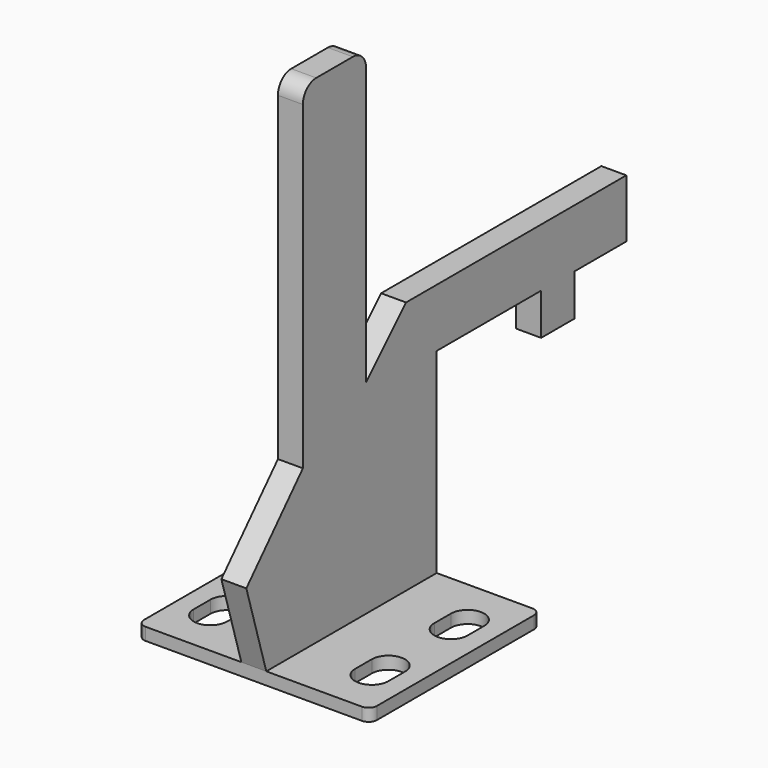
from build123d import *

# Parameters (mm, degrees)
F1_DEPTH = 1.5
F3_DEPTH = 25
F6_DEPTH = 1.5
F7_W     = 3
F7_H     = 5
F8_DEPTH = 5


with BuildPart() as f1:
    # F0 (on Top) → F1 (new body)
    with BuildSketch(Plane.XY):
        with BuildLine():
            ThreePointArc((0, 1), (0.292893, 0.292893), (1, 0))
            Line((1, 0), (27, 0))
            ThreePointArc((27, 0), (27.707107, 0.292893), (28, 1))
            Line((28, 1), (28, 24.6))
            ThreePointArc((28, 24.6), (27.707107, 25.307107), (27, 25.6))
            Line((27, 25.6), (1, 25.6))
            ThreePointArc((1, 25.6), (0.292893, 25.307107), (0, 24.6))
            Line((0, 24.6), (0, 1))
        make_face()
    extrude(amount=F1_DEPTH)

    # F2 (on face) → F3 (cut)
    with BuildSketch(Plane.XY.offset(1.5)):
        with BuildLine():
            Line((6.3, 17.5), (6.3, 20))
            ThreePointArc((6.3, 20), (4.3, 22), (2.3, 20))
            Line((2.3, 20), (2.3, 17.5))
            ThreePointArc((2.3, 17.5), (4.3, 15.5), (6.3, 17.5))
        make_face()
        with BuildLine():
            Line((6.3, 5.6), (6.3, 8.1))
            ThreePointArc((6.3, 8.1), (4.3, 10.1), (2.3, 8.1))
            Line((2.3, 8.1), (2.3, 5.6))
            ThreePointArc((2.3, 5.6), (4.3, 3.6), (6.3, 5.6))
        make_face()
        with BuildLine():
            Line((25.7, 5.6), (25.7, 8.1))
            ThreePointArc((25.7, 8.1), (23.7, 10.1), (21.7, 8.1))
            Line((21.7, 8.1), (21.7, 5.6))
            ThreePointArc((21.7, 5.6), (23.7, 3.6), (25.7, 5.6))
        make_face()
        with BuildLine():
            Line((25.7, 17.5), (25.7, 20))
            ThreePointArc((25.7, 20), (23.7, 22), (21.7, 20))
            Line((21.7, 20), (21.7, 17.5))
            ThreePointArc((21.7, 17.5), (23.7, 15.5), (25.7, 17.5))
        make_face()
    extrude(amount=-F3_DEPTH, mode=Mode.SUBTRACT)

    # F5 (on offset) → F6 (join, symmetric)
    with BuildSketch(Plane.YZ.offset(14)):
        with BuildLine():
            Line((-3, 11.5), (0, 1.5))
            Line((0, 1.5), (25.6, 1.5))
            Line((25.6, 1.5), (25.6, 25))
            Line((25.6, 25), (54.1, 25))
            Line((54.1, 25), (54.1, 32))
            Line((54.1, 32), (21, 32))
            Line((21, 32), (15, 26))
            Line((15, 26), (15, 59.25))
            ThreePointArc((15, 59.25), (14.414214, 60.664214), (13, 61.25))
            Line((13, 61.25), (7.5, 61.25))
            ThreePointArc((7.5, 61.25), (6.085786, 60.664214), (5.5, 59.25))
            Line((5.5, 59.25), (5.5, 20.75))
            Line((5.5, 20.75), (-3, 11.5))
        make_face()
    extrude(amount=F6_DEPTH, both=True)

    # F7 (on face) → F8 (join)
    with BuildSketch(Plane(origin=(0, 0, 25), x_dir=(1, 0, 0), z_dir=(0, 0, -1))):
        with Locations((14, -43.8)):
            Rectangle(F7_W, F7_H)
    extrude(amount=F8_DEPTH)


solid = f1.part
